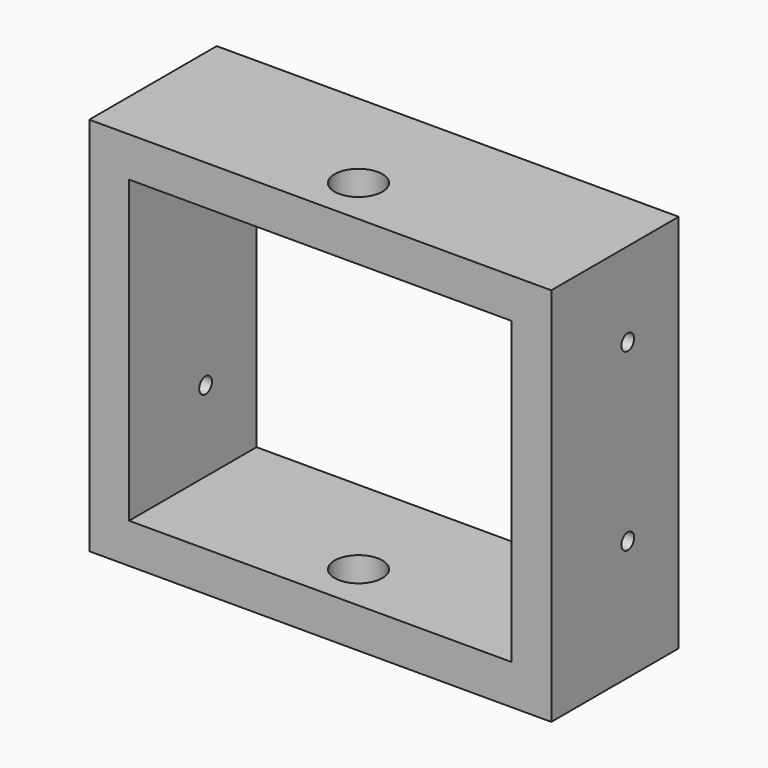
from build123d import *

# Parameters (mm, degrees)
F0_W     = 290
F0_H     = 238.5
F0_W_2   = 240
F0_H_2   = 188.5
F1_DEPTH = 50
F2_R     = 15
F3_DEPTH = 238.501
F4_R     = 5
F5_DEPTH = 290.001


with BuildPart() as f1:
    # F0 (on Front) → F1 (new body, symmetric)
    with BuildSketch(Plane.XZ):
        with Locations((0, -11.25)):
            Rectangle(F0_W, F0_H)
        with Locations((0, -11.25)):
            Rectangle(F0_W_2, F0_H_2, mode=Mode.SUBTRACT)
    extrude(amount=F1_DEPTH, both=True)

    # F2 (on face) → F3 (cut, through all)
    with BuildSketch(Plane.XY.offset(108)):
        with Locations((0, -20)):
            Circle(F2_R)
    extrude(amount=-F3_DEPTH, mode=Mode.SUBTRACT)

    # F4 (on face) → F5 (cut, through all)
    with BuildSketch(Plane.YZ.offset(145)):
        with Locations((10, 55)):
            Circle(F4_R)
        with Locations((10, -55)):
            Circle(F4_R)
    extrude(amount=-F5_DEPTH, mode=Mode.SUBTRACT)


solid = f1.part
